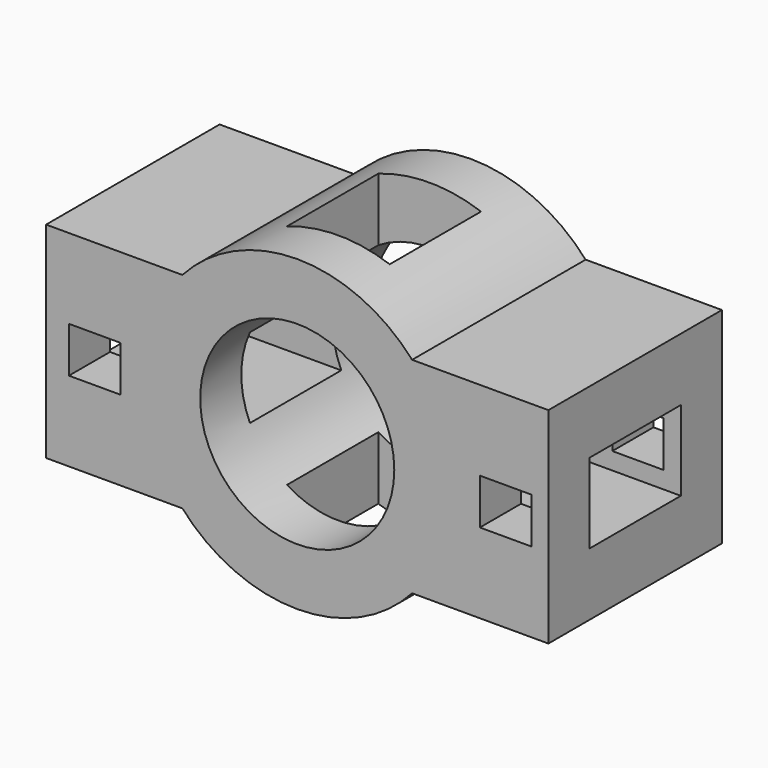
from build123d import *

# Parameters (mm, degrees)
F0_W     = 9
F0_H     = 8
F0_R     = 17
F1_DEPTH = 38
F2_W     = 20
F2_H     = 14
F3_DEPTH = 113.538
F5_W     = 18
F5_H     = 20
F6_DEPTH = 71.628


with BuildPart() as f1:
    # F0 (on Front) → F1 (new body)
    with BuildSketch(Plane.XZ):
        with BuildLine():
            ThreePointArc((-20.1246117975, -18), (-27, 0), (-20.1246117975, 18))
            Line((-20.1246117975, 18), (-44, 18))
            Line((-44, 18), (-44, -18))
            Line((-44, -18), (-20.1246117975, -18))
        make_face()
        with Locations((-35.5, 0)):
            Rectangle(F0_W, F0_H, mode=Mode.SUBTRACT)
        with BuildLine():
            ThreePointArc((20.1246117975, -18), (25.222653692, -9.6341964239), (27, 0))
            ThreePointArc((27, 0), (25.222653692, 9.6341964239), (20.1246117975, 18))
            Line((20.1246117975, 18), (-20.1246117975, 18))
            ThreePointArc((-20.1246117975, 18), (-27, 0), (-20.1246117975, -18))
            Line((-20.1246117975, -18), (20.1246117975, -18))
        make_face()
        Circle(F0_R, mode=Mode.SUBTRACT)
        with BuildLine():
            Line((-20.1246117975, 18), (20.1246117975, 18))
            ThreePointArc((20.1246117975, 18), (0, 27), (-20.1246117975, 18))
        make_face()
        with BuildLine():
            ThreePointArc((20.1246117975, 18), (25.222653692, 9.6341964239), (27, 0))
            ThreePointArc((27, 0), (25.222653692, -9.6341964239), (20.1246117975, -18))
            Line((20.1246117975, -18), (44, -18))
            Line((44, -18), (44, 18))
            Line((44, 18), (20.1246117975, 18))
        make_face()
        with Locations((36.5, 0)):
            Rectangle(F0_W, F0_H, mode=Mode.SUBTRACT)
        with BuildLine():
            ThreePointArc((-20.1246117975, -18), (0, -27), (20.1246117975, -18))
            Line((20.1246117975, -18), (-20.1246117975, -18))
        make_face()
    extrude(amount=F1_DEPTH)

    # F2 (on face) → F3 (cut)
    with BuildSketch(Plane(origin=(-44, 0, 0), x_dir=(0, -1, 0), z_dir=(-1, 0, 0))):
        with Locations((19, 0)):
            Rectangle(F2_W, F2_H)
    extrude(amount=-F3_DEPTH, mode=Mode.SUBTRACT)

    # F5 (on offset) → F6 (cut)
    with BuildSketch(Plane.XY.offset(27)):
        with Locations((0, -19)):
            Rectangle(F5_W, F5_H)
    extrude(amount=-F6_DEPTH, mode=Mode.SUBTRACT)


solid = f1.part
